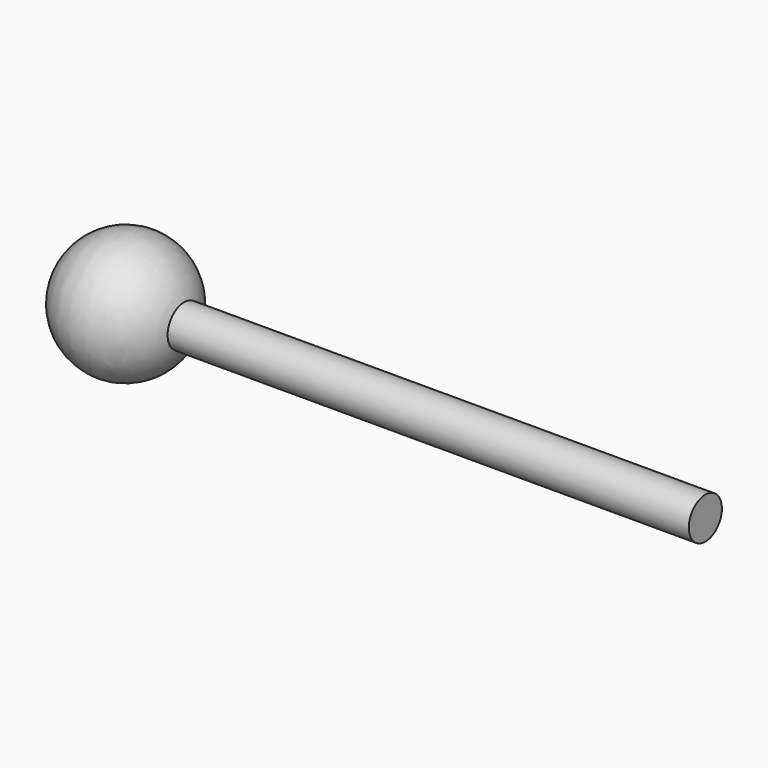
from build123d import *


with BuildPart() as f1:
    # F0 (on Front) → F1 (revolve)
    with BuildSketch(Plane.XZ):
        with BuildLine():
            ThreePointArc((-70.939488, 6.35), (-92.121393, 18.775653), (-107.95, 0))
            Line((-107.95, 0), (-88.9, 0))
            Line((-88.9, 0), (-88.9, 6.35))
            Line((-88.9, 6.35), (-70.939488, 6.35))
        make_face()
        with BuildLine():
            Line((-88.9, 0), (-69.85, 0))
            ThreePointArc((-69.85, 0), (-70.124347, 3.221393), (-70.939488, 6.35))
            Line((-70.939488, 6.35), (-88.9, 6.35))
            Line((-88.9, 6.35), (-88.9, 0))
        make_face()
    revolve(axis=Axis((-11.999056, 0, 0), (-1, 0, 0)))

    # F0 (on Front) → F2 (revolve)
    with BuildSketch(Plane.XZ):
        with BuildLine():
            Line((-69.85, 0), (88.9, 0))
            Line((88.9, 0), (88.9, 6.35))
            Line((88.9, 6.35), (-70.939488, 6.35))
            ThreePointArc((-70.939488, 6.35), (-70.124347, 3.221393), (-69.85, 0))
        make_face()
    revolve(axis=Axis((-11.999056, 0, 0), (-1, 0, 0)))


solid = f1.part
